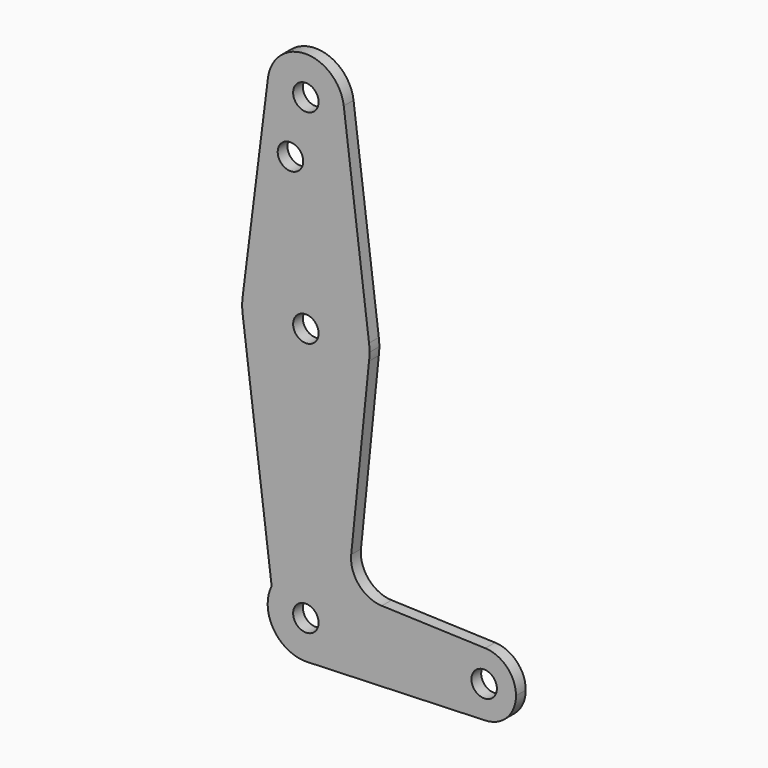
from build123d import *

# Parameters (mm, degrees)
F0_R     = 3.175
F1_DEPTH = 3.048


with BuildPart() as f1:
    # F0 (on Front) → F1 (new body)
    with BuildSketch(Plane.XZ):
        with BuildLine():
            ThreePointArc((0.340179, -9.518923), (6.854408, -6.613827), (9.525, 0))
            ThreePointArc((9.525, 0), (2.173145, 9.273784), (-8.533387, 4.231658))
            ThreePointArc((-8.533387, 4.231658), (-8.003236, -5.164672), (0.340179, -9.518923))
        make_face()
        Circle(F0_R, mode=Mode.SUBTRACT)
        with BuildLine():
            ThreePointArc((-8.533387, 4.231658), (2.173145, 9.273784), (9.525, 0))
            ThreePointArc((9.525, 0), (6.854408, -6.613827), (0.340179, -9.518923))
            Line((0.340179, -9.518923), (44.733482, -7.932436))
            ThreePointArc((44.733482, -7.932436), (36.5125, 0), (44.733482, 7.932436))
            Line((44.733482, 7.932436), (18.932025, 8.854505))
            ThreePointArc((18.932025, 8.854505), (13.223819, 11.5747), (11.306163, 17.600118))
            Line((11.306163, 17.600118), (15.750488, 61.515625))
            ThreePointArc((15.750488, 61.515625), (0, 47.625), (-15.750488, 61.515625))
            Line((-15.750488, 61.515625), (-8.533387, 4.231658))
        make_face()
        with BuildLine():
            ThreePointArc((-15.750488, 65.484375), (-15.875, 63.5), (-15.750488, 61.515625))
            ThreePointArc((-15.750488, 61.515625), (0, 47.625), (15.750488, 61.515625))
            ThreePointArc((15.750488, 61.515625), (15.843841, 62.505861), (15.875, 63.5))
            ThreePointArc((15.875, 63.5), (15.843841, 64.494139), (15.750488, 65.484375))
            ThreePointArc((15.750488, 65.484375), (0, 79.375), (-15.750488, 65.484375))
        make_face()
        with Locations((0, 63.5)):
            Circle(F0_R, mode=Mode.SUBTRACT)
        with BuildLine():
            ThreePointArc((44.733482, 7.932436), (36.5125, 0), (44.733482, -7.932436))
            ThreePointArc((44.733482, -7.932436), (50.162007, -5.511523), (52.3875, 0))
            ThreePointArc((52.3875, 0), (50.162007, 5.511523), (44.733482, 7.932436))
        make_face()
        with Locations((44.45, 0)):
            Circle(F0_R, mode=Mode.SUBTRACT)
        with BuildLine():
            Line((-9.450293, 115.490625), (-15.750488, 65.484375))
            ThreePointArc((-15.750488, 65.484375), (0, 79.375), (15.750488, 65.484375))
            Line((15.750488, 65.484375), (9.450293, 115.490625))
            ThreePointArc((9.450293, 115.490625), (9.506305, 114.896483), (9.525, 114.3))
            ThreePointArc((9.525, 114.3), (-0.596483, 104.793695), (-9.450293, 115.490625))
        make_face()
        with Locations((-3.845851, 100.0252)):
            Circle(F0_R, mode=Mode.SUBTRACT)
        with BuildLine():
            ThreePointArc((9.450293, 115.490625), (0, 123.825), (-9.450293, 115.490625))
            ThreePointArc((-9.450293, 115.490625), (-0.596483, 104.793695), (9.525, 114.3))
            ThreePointArc((9.525, 114.3), (9.506305, 114.896483), (9.450293, 115.490625))
        make_face()
        with Locations((0, 114.3)):
            Circle(F0_R, mode=Mode.SUBTRACT)
    extrude(amount=F1_DEPTH)


solid = f1.part
